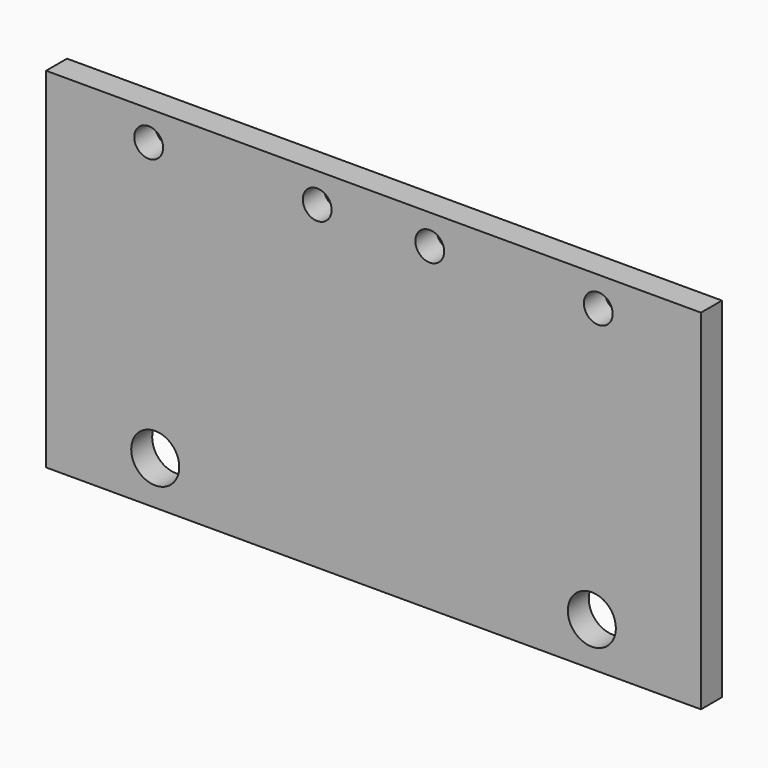
from build123d import *

# Parameters (mm, degrees)
F0_W     = 75
F0_H     = 40
F1_DEPTH = 3
F3_D     = 5.5
F4_D     = 3.3


with BuildPart() as f1:
    # F0 (on Front) → F1 (new body)
    with BuildSketch(Plane.XZ):
        with Locations((37.5, 20)):
            Rectangle(F0_W, F0_H)
    extrude(amount=-F1_DEPTH)

    # F3 (through all)
    with Locations(Plane.XZ):
        with Locations((12.5, 5), (62.5, 5)):
            Hole(F3_D / 2)

    # F4 (through all)
    with Locations(Plane.XZ):
        with Locations((11.75, 36.590098), (31.05, 36.590098), (43.94, 36.590098), (63.24, 36.590098)):
            Hole(F4_D / 2)


solid = f1.part
